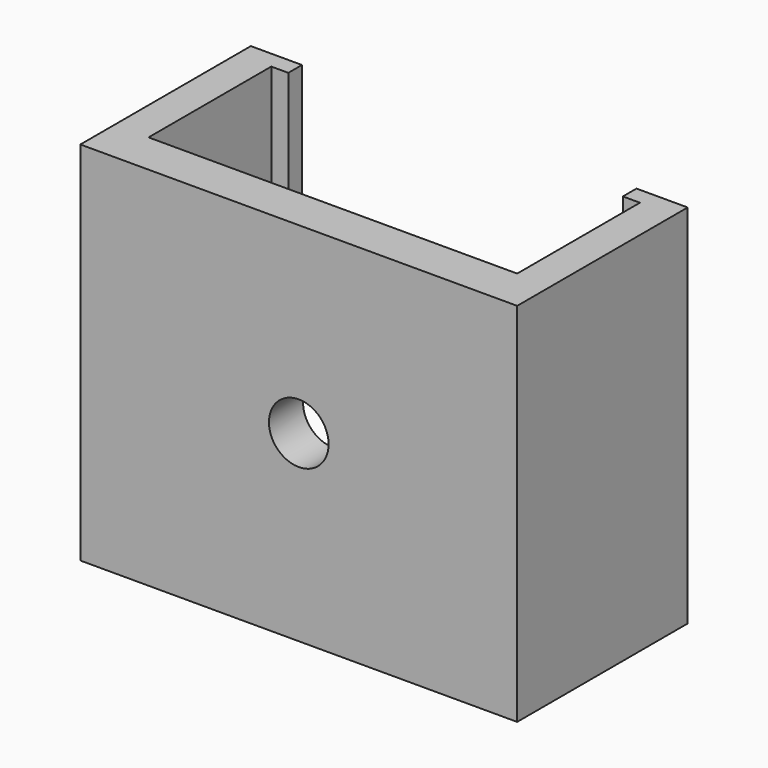
from build123d import *

# Parameters (mm, degrees)
F0_W     = 0.8
F0_H     = 0.8
F1_DEPTH = 8.595
F2_R     = 1.4
F3_DEPTH = 2


with BuildPart() as f1:
    # F0 (on Top) → F1 (new body, symmetric)
    with BuildSketch(Plane.XY):
        with Locations((8.25, 9.6)):
            Rectangle(F0_W, F0_H)
        Polygon((8.65, 9.2), (8.65, 2), (10.25, 2), (10.25, 10), (8.65, 10), align=None)
        with Locations((-8.25, 9.6)):
            Rectangle(F0_W, F0_H)
        Polygon((-10.25, 10), (-10.25, 2), (-8.65, 2), (-8.65, 9.2), (-8.65, 10), align=None)
        Polygon((-10.25, 0), (0, 0), (0, 2), (-8.65, 2), (-10.25, 2), align=None)
        Polygon((0, 2), (0, 0), (10.25, 0), (10.25, 2), (8.65, 2), align=None)
    extrude(amount=F1_DEPTH, both=True)

    # F2 (on face) → F3 (cut, through all)
    with BuildSketch(Plane.XZ):
        Circle(F2_R)
    extrude(amount=-F3_DEPTH, mode=Mode.SUBTRACT)


solid = f1.part
